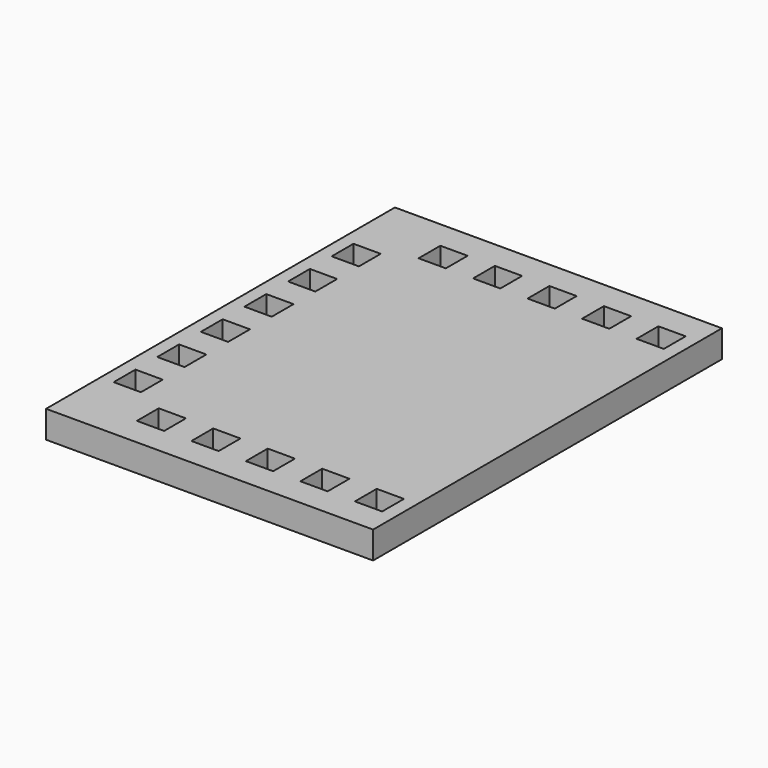
from build123d import *

# Parameters (mm, degrees)
F0_W     = 76.2
F0_H     = 101.6
F0_W_2   = 6.35
F0_H_2   = 6.35
F1_DEPTH = 6.35


with BuildPart() as f1:
    # F0 (on Top) → F1 (new body)
    with BuildSketch(Plane.XY):
        Rectangle(F0_W, F0_H)
        with Locations((-31.877, -31.75)):
            Rectangle(F0_W_2, F0_H_2, mode=Mode.SUBTRACT)
        with Locations((-19.05, -41.021)):
            Rectangle(F0_W_2, F0_H_2, mode=Mode.SUBTRACT)
        with Locations((-6.35, -41.021)):
            Rectangle(F0_W_2, F0_H_2, mode=Mode.SUBTRACT)
        with Locations((-31.877, -19.05)):
            Rectangle(F0_W_2, F0_H_2, mode=Mode.SUBTRACT)
        with Locations((-31.877, -6.35)):
            Rectangle(F0_W_2, F0_H_2, mode=Mode.SUBTRACT)
        with Locations((6.35, -41.021)):
            Rectangle(F0_W_2, F0_H_2, mode=Mode.SUBTRACT)
        with Locations((19.05, -41.021)):
            Rectangle(F0_W_2, F0_H_2, mode=Mode.SUBTRACT)
        with Locations((31.75, -41.021)):
            Rectangle(F0_W_2, F0_H_2, mode=Mode.SUBTRACT)
        with Locations((-31.877, 6.35)):
            Rectangle(F0_W_2, F0_H_2, mode=Mode.SUBTRACT)
        with Locations((-31.877, 19.05)):
            Rectangle(F0_W_2, F0_H_2, mode=Mode.SUBTRACT)
        with Locations((-31.877, 31.75)):
            Rectangle(F0_W_2, F0_H_2, mode=Mode.SUBTRACT)
        with Locations((-19.05, 41.021)):
            Rectangle(F0_W_2, F0_H_2, mode=Mode.SUBTRACT)
        with Locations((-6.35, 41.021)):
            Rectangle(F0_W_2, F0_H_2, mode=Mode.SUBTRACT)
        with Locations((6.35, 41.021)):
            Rectangle(F0_W_2, F0_H_2, mode=Mode.SUBTRACT)
        with Locations((19.05, 41.021)):
            Rectangle(F0_W_2, F0_H_2, mode=Mode.SUBTRACT)
        with Locations((31.75, 41.021)):
            Rectangle(F0_W_2, F0_H_2, mode=Mode.SUBTRACT)
    extrude(amount=F1_DEPTH)


solid = f1.part
